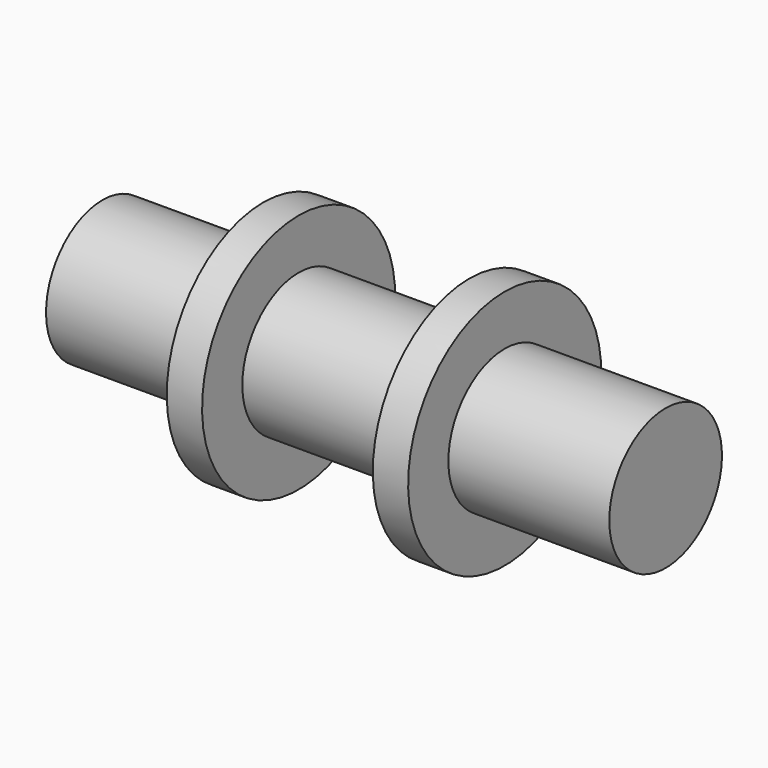
from build123d import *


with BuildPart() as f1:
    # F0 (on Front) → F1 (revolve)
    with BuildSketch(Plane.XZ):
        Polygon((0, 0), (70, 0), (70, 17.5), (30, 17.5), (30, 30), (21.217387, 30), (21.217387, 17.5), (0, 17.5), align=None)
    revolve(axis=Axis((35, 0, 0), (1, 0, 0)))

    # F2: F1 across plane


with BuildPart() as f1_1:
    add(f1.part)
    add(f1.part.mirror(Plane.YZ))


solid = f1_1.part
